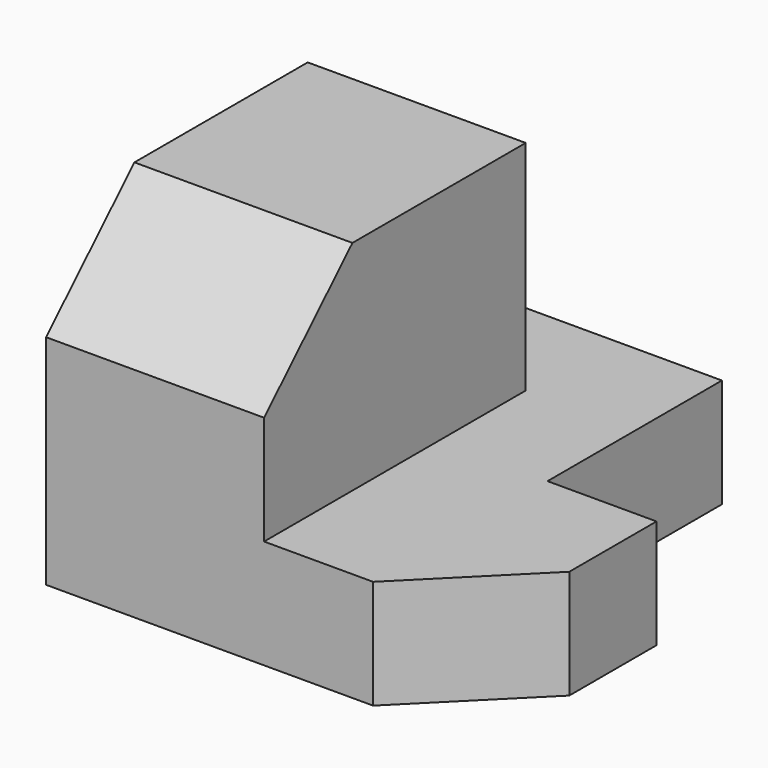
from build123d import *

# Parameters (mm, degrees)
F0_W      = 40
F0_H      = 40
F1_DEPTH  = 30
F2_W      = 10
F2_H      = 20
F3_DEPTH  = 30
F5_DEPTH  = 20
F8_DEPTH  = 10
F10_DEPTH = 25


with BuildPart() as f1:
    # F0 (on Top) → F1 (new body)
    with BuildSketch(Plane.XY):
        with Locations((20, 20)):
            Rectangle(F0_W, F0_H)
    extrude(amount=F1_DEPTH)

    # F2 (on face) → F3 (cut)
    with BuildSketch(Plane.XY.offset(30)):
        with Locations((35, 30)):
            Rectangle(F2_W, F2_H)
    extrude(amount=-F3_DEPTH, mode=Mode.SUBTRACT)

    # F4 (on face) → F5 (cut)
    with BuildSketch(Plane.XY.offset(30)):
        Polygon((30, 40), (0, 40), (0, 30), (20, 30), (20, 0), (40, 0), (40, 20), (30, 20), align=None)
    extrude(amount=-F5_DEPTH, mode=Mode.SUBTRACT)

    # F7 (on face) → F8 (cut)
    with BuildSketch(Plane.XY.offset(10)):
        Polygon((40, 0), (40, 10), (30, 0), align=None)
    extrude(amount=-F8_DEPTH, mode=Mode.SUBTRACT)

    # F9 (on face) → F10 (cut)
    with BuildSketch(Plane(origin=(0, 0, 0), x_dir=(0, -1, 0), z_dir=(-1, 0, 0))):
        Polygon((0, 20), (0, 30), (-10.130798, 30), align=None)
    extrude(amount=-F10_DEPTH, mode=Mode.SUBTRACT)


solid = f1.part
